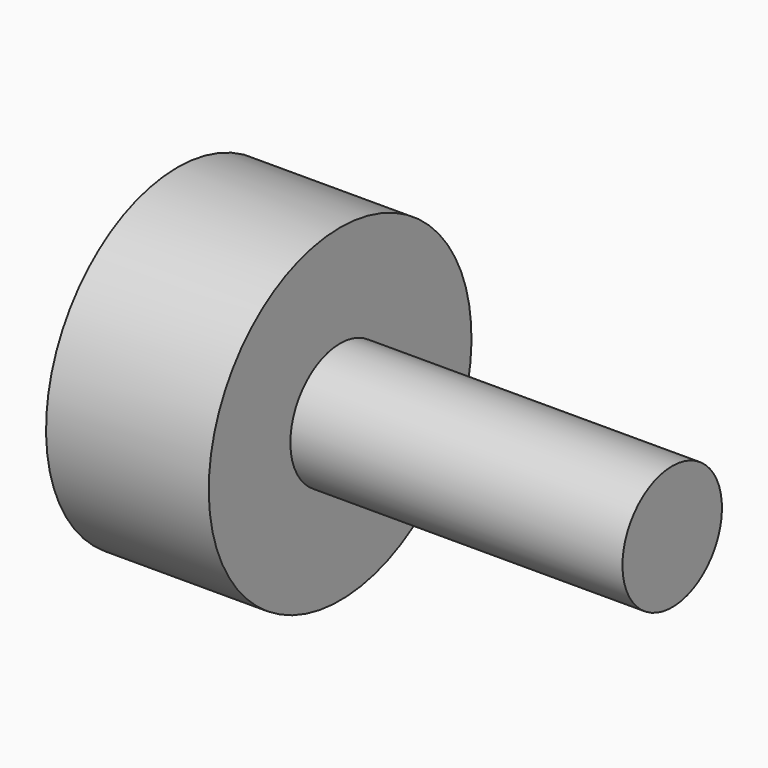
from build123d import *

# Parameters (mm, degrees)
F0_W = 39.1904609278
F0_H = 7.3387436569


with BuildPart() as f1:
    # F0 (on Front) → F1 (revolve)
    with BuildSketch(Plane.XZ):
        Polygon((-48.8408245146, 33.6791500449), (-68.0451020598, 33.6791500449), (-68.0451020598, 14.3002886325), (-48.8408245146, 14.3002886325), (-48.8408245146, 21.6390322894), align=None)
        with Locations((-29.2455940507, 17.9696604609)):
            Rectangle(F0_W, F0_H)
    revolve(axis=Axis((-38.2777928608, 0, 14.3002886325), (1, 0, 0)))


solid = f1.part
